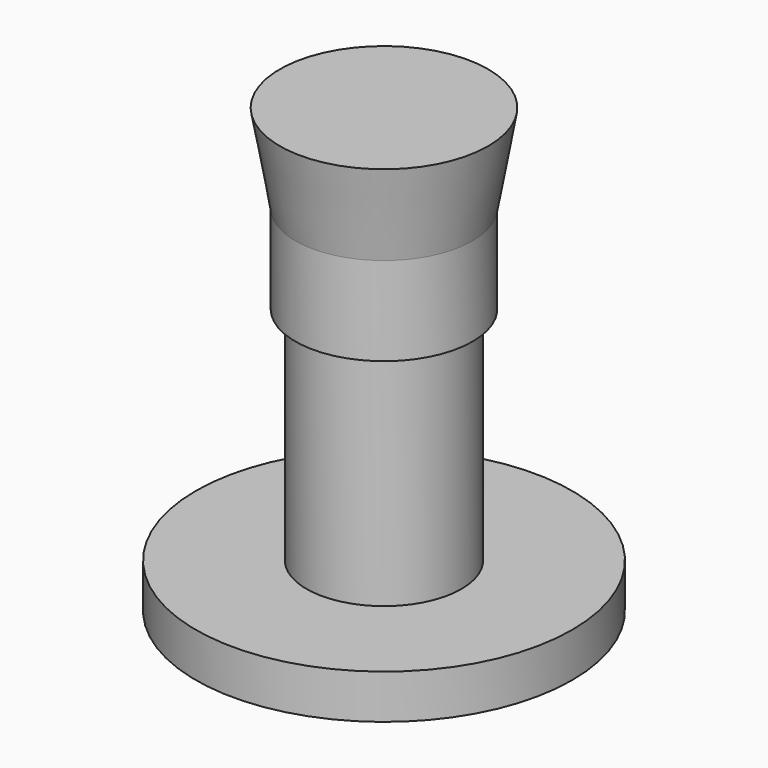
from build123d import *

# Parameters (mm, degrees)
F0_R      = 8.5
F1_DEPTH  = 2
F2_R      = 3.5
F3_DEPTH  = 10
F4_R      = 4
F5_DEPTH  = 4
F5_FACE_R = 4
F6_DEPTH  = 4
F6_TAPER  = -10


with BuildPart() as f1:
    # F0 (on Top) → F1 (new body)
    with BuildSketch(Plane.XY):
        Circle(F0_R)
    extrude(amount=F1_DEPTH)

    # F2 (on face) → F3 (join)
    with BuildSketch(Plane.XY.offset(2)):
        Circle(F2_R)
    extrude(amount=F3_DEPTH)

    # F4 (on face) → F5 (join)
    with BuildSketch(Plane.XY.offset(12)):
        Circle(F4_R)
    extrude(amount=F5_DEPTH)

    # F5_face (on face) → F6 (join)
    with BuildSketch(Plane.XY.offset(16)):
        Circle(F5_FACE_R)
    extrude(amount=F6_DEPTH, taper=F6_TAPER)


solid = f1.part
